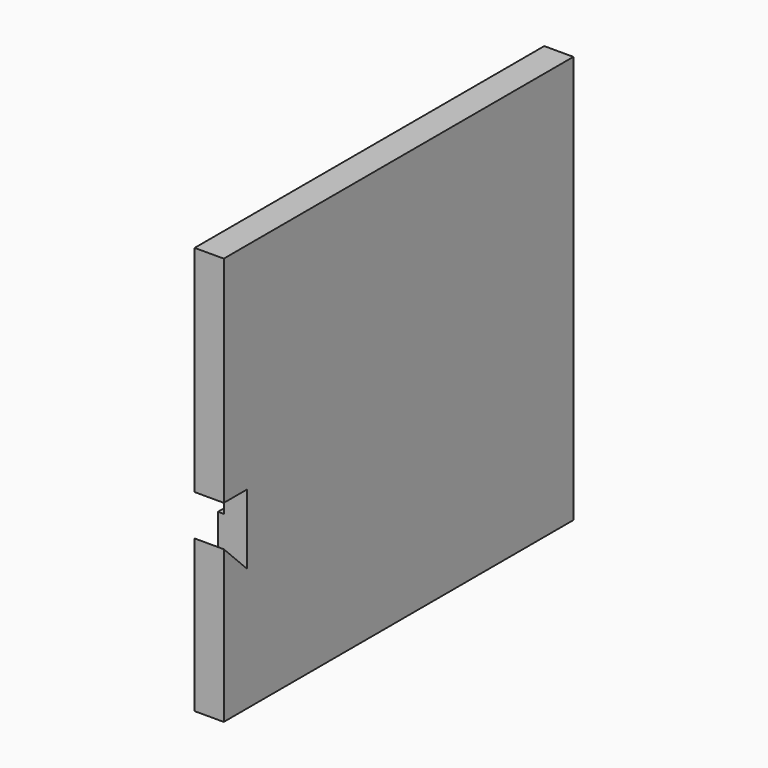
from build123d import *

# Parameters (mm, degrees)
F0_W     = 25
F0_H     = 350
F1_DEPTH = 375
F3_DEPTH = 25
F4_W     = 350
F4_H     = 25
F5_DEPTH = 5


with BuildPart() as f1:
    # F0 (on Front) → F1 (new body)
    with BuildSketch(Plane.XZ):
        with Locations((-57.378992, 100.442262)):
            Rectangle(F0_W, F0_H)
    extrude(amount=F1_DEPTH)

    # F2 (on face) → F3 (cut)
    with BuildSketch(Plane.YZ.offset(-44.878992)):
        Polygon((-375, 90.931553), (-375, 55.931553), (-350, 30.931553), (-350, 90.931553), align=None)
    extrude(amount=-F3_DEPTH, mode=Mode.SUBTRACT)

    # F4 (on face) → F5 (cut)
    with BuildSketch(Plane(origin=(-69.878992, 0, 0), x_dir=(0, -1, 0), z_dir=(-1, 0, 0))):
        with Locations((175, 78.431553)):
            Rectangle(F4_W, F4_H)
    extrude(amount=-F5_DEPTH, mode=Mode.SUBTRACT)


solid = f1.part
